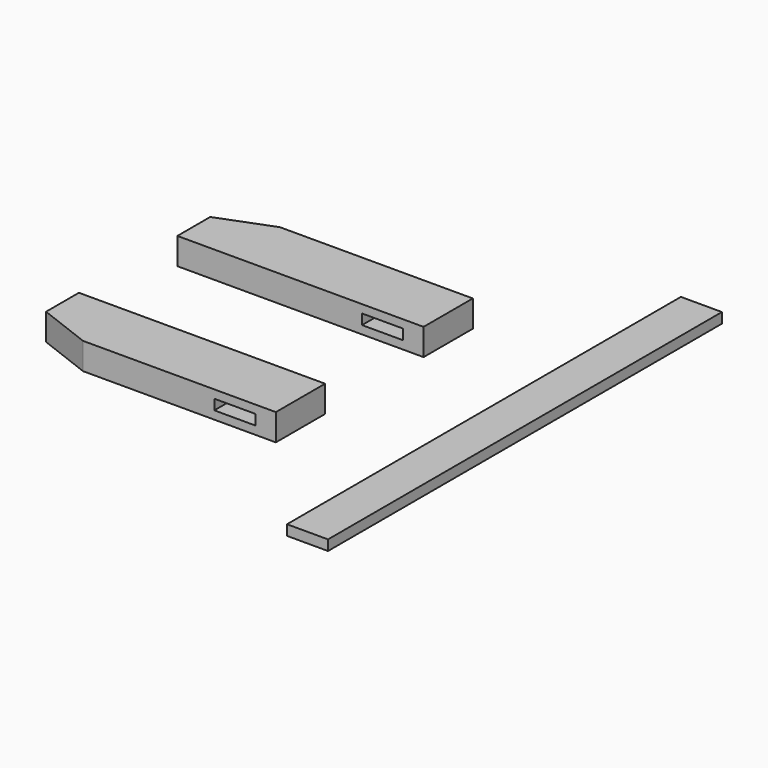
from build123d import *

# Parameters (mm, degrees)
F0_W     = 12.7
F0_H     = 152.4
F1_DEPTH = 3.175
F3_DEPTH = 8.255
F4_W     = 12.7
F4_H     = 3.175
F5_DEPTH = 25.4
F8_ANGLE = 180


with BuildPart() as f1:
    # F0 (on Top) → F1 (new body)
    with BuildSketch(Plane.XY):
        with Locations((46.5370025486, 21.2637922109)):
            Rectangle(F0_W, F0_H)
    extrude(amount=F1_DEPTH)


with BuildPart() as f3:
    # F2 (on Top) → F3 (new body)
    with BuildSketch(Plane.XY):
        Polygon((-68.679641672, 51.4394364238), (-68.679641672, 38.7394364238), (7.520358328, 38.7394364238), (7.520358328, 57.7894364238), (-52.169641672, 57.7894364238), align=None)
    extrude(amount=F3_DEPTH)

    # F4 (on face) → F5 (cut)
    with BuildSketch(Plane.XZ.offset(-38.7394364238)):
        with Locations((-5.179641672, 4.1275)):
            Rectangle(F4_W, F4_H)
    extrude(amount=-F5_DEPTH, mode=Mode.SUBTRACT)


with BuildPart() as f6_1:
    # F6: copy of F3
    add(f3.part)


with BuildPart() as f6_1_1:
    # F7: moved
    add(f6_1.part.moved(Location((0, -76.2, 0))))


with BuildPart() as f6_1_2:
    # F8: moved
    add(f6_1_1.part.rotate(Axis((-22.324641672, -18.4105635762, 8.255), (-1, 0, 0)), F8_ANGLE))


with BuildPart() as f6_1_3:
    # F9: moved
    add(f6_1_2.part.moved(Location((0, 0, -8.255))))


solid = Compound([f1.part, f3.part, f6_1_3.part])
